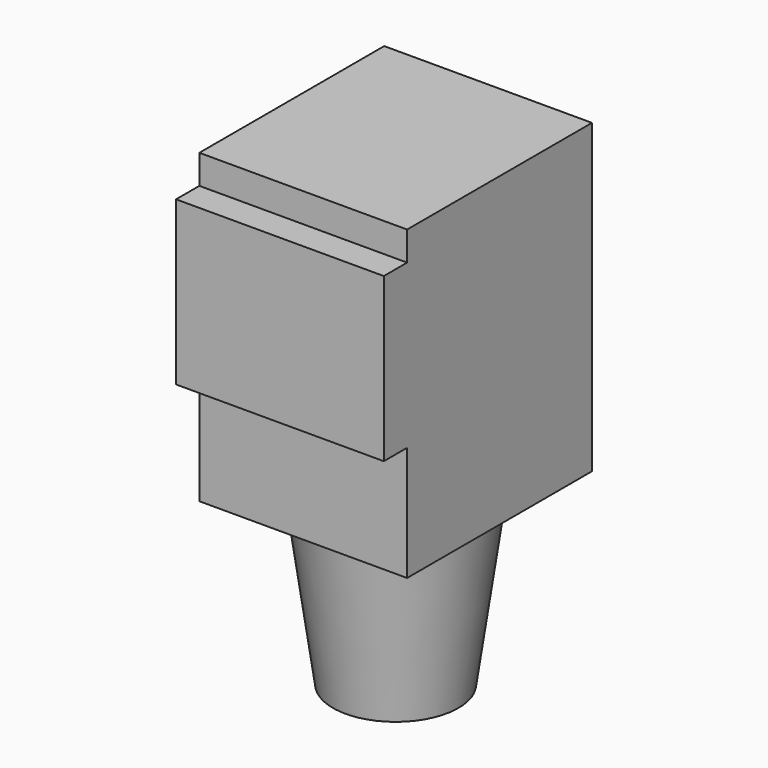
from build123d import *

# Parameters (mm, degrees)
F1_DEPTH = 5.35


with BuildPart() as f1:
    # F0 (on Right) → F1 (new body, symmetric)
    with BuildSketch(Plane.YZ):
        Polygon((13.4, 5.6976731923), (1.5, 5.6976731923), (1.5, 4.1976731923), (0, 4.1976731923), (0, -4.1976731923), (1.5, -4.1976731923), (1.5, -10.1023268077), (13.4, -10.1023268077), align=None)
    extrude(amount=F1_DEPTH, both=True)

    # F2 (on Right) → F3 (revolve)
    with BuildSketch(Plane.YZ):
        Polygon((11.95, -10.1023268077), (7.45, -10.1023268077), (7.45, -19.1023268077), (10.6851324877, -19.1023268077), align=None)
    revolve(axis=Axis((0, 7.45, -0.5276551531), (0, 0, -1)))


solid = f1.part
